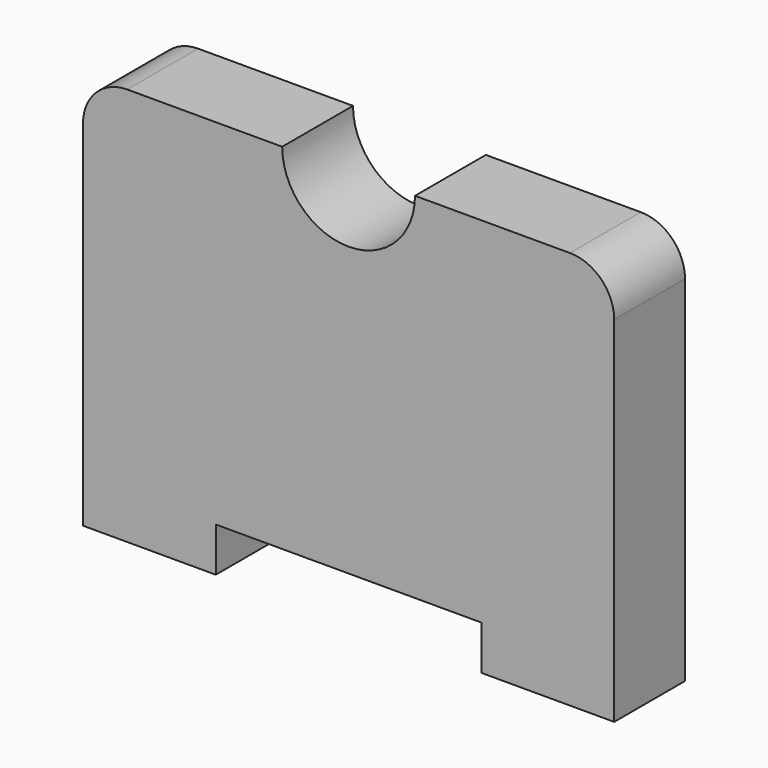
from build123d import *

# Parameters (mm, degrees)
F1_DEPTH = 1
F2_W     = 3
F2_H     = 0.5
F3_DEPTH = 25


with BuildPart() as f1:
    # F0 (on Front) → F1 (new body)
    with BuildSketch(Plane.XZ):
        with BuildLine():
            ThreePointArc((0.75, 0), (0, -0.75), (-0.75, 0))
            Line((-0.75, 0), (-2.5, 0))
            ThreePointArc((-2.5, 0), (-2.853553, -0.146447), (-3, -0.5))
            Line((-3, -0.5), (-3, -4.5))
            Line((-3, -4.5), (3, -4.5))
            Line((3, -4.5), (3, -0.5))
            ThreePointArc((3, -0.5), (2.853553, -0.146447), (2.5, 0))
            Line((2.5, 0), (0.75, 0))
        make_face()
    extrude(amount=F1_DEPTH)

    # F2 (on face) → F3 (cut)
    with BuildSketch(Plane.XZ.offset(1)):
        with Locations((0, -4.25)):
            Rectangle(F2_W, F2_H)
    extrude(amount=-F3_DEPTH, mode=Mode.SUBTRACT)


solid = f1.part
